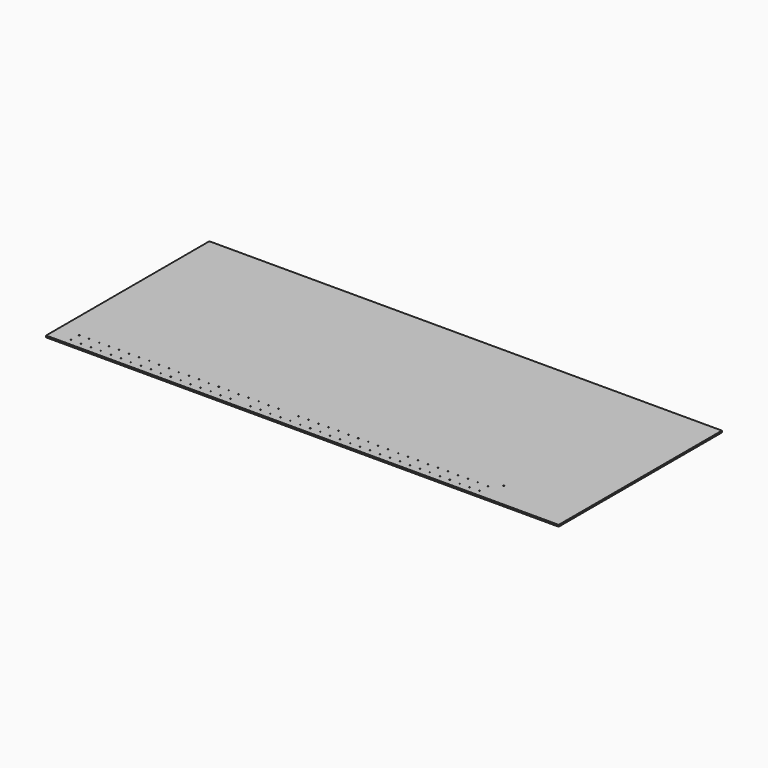
from build123d import *

# Parameters (mm, degrees)
F0_W     = 385.756454
F0_H     = 153.582514
F0_R     = 0.325
F1_DEPTH = 1.27


with BuildPart() as f1:
    # F0 (on Top) → F1 (new body)
    with BuildSketch(Plane.XY):
        with Locations((-17.121773, -53.208743)):
            Rectangle(F0_W, F0_H)
        with Locations((-195, -125.25)):
            Circle(F0_R, mode=Mode.SUBTRACT)
        with Locations((-187.5, -125.25)):
            Circle(F0_R, mode=Mode.SUBTRACT)
        with Locations((-180, -125.25)):
            Circle(F0_R, mode=Mode.SUBTRACT)
        with Locations((-172.5, -125.25)):
            Circle(F0_R, mode=Mode.SUBTRACT)
        with Locations((-165, -125.25)):
            Circle(F0_R, mode=Mode.SUBTRACT)
        with Locations((-195, -117.55)):
            Circle(F0_R, mode=Mode.SUBTRACT)
        with Locations((-187.5, -117.55)):
            Circle(F0_R, mode=Mode.SUBTRACT)
        with Locations((-180, -117.55)):
            Circle(F0_R, mode=Mode.SUBTRACT)
        with Locations((-172.5, -117.55)):
            Circle(F0_R, mode=Mode.SUBTRACT)
        with Locations((-165, -117.55)):
            Circle(F0_R, mode=Mode.SUBTRACT)
        with Locations((-157.5, -125.25)):
            Circle(F0_R, mode=Mode.SUBTRACT)
        with Locations((-150, -125.25)):
            Circle(F0_R, mode=Mode.SUBTRACT)
        with Locations((-142.5, -125.25)):
            Circle(F0_R, mode=Mode.SUBTRACT)
        with Locations((-135, -125.25)):
            Circle(F0_R, mode=Mode.SUBTRACT)
        with Locations((-127.5, -125.25)):
            Circle(F0_R, mode=Mode.SUBTRACT)
        with Locations((-120, -125.25)):
            Circle(F0_R, mode=Mode.SUBTRACT)
        with Locations((-157.5, -117.55)):
            Circle(F0_R, mode=Mode.SUBTRACT)
        with Locations((-150, -117.55)):
            Circle(F0_R, mode=Mode.SUBTRACT)
        with Locations((-142.5, -117.55)):
            Circle(F0_R, mode=Mode.SUBTRACT)
        with Locations((-135, -117.55)):
            Circle(F0_R, mode=Mode.SUBTRACT)
        with Locations((-127.5, -117.55)):
            Circle(F0_R, mode=Mode.SUBTRACT)
        with Locations((-120, -117.55)):
            Circle(F0_R, mode=Mode.SUBTRACT)
        with Locations((-112.5, -125.25)):
            Circle(F0_R, mode=Mode.SUBTRACT)
        with Locations((-105, -125.25)):
            Circle(F0_R, mode=Mode.SUBTRACT)
        with Locations((-97.5, -125.25)):
            Circle(F0_R, mode=Mode.SUBTRACT)
        with Locations((-90, -125.25)):
            Circle(F0_R, mode=Mode.SUBTRACT)
        with Locations((-82.5, -125.25)):
            Circle(F0_R, mode=Mode.SUBTRACT)
        with Locations((-75, -125.25)):
            Circle(F0_R, mode=Mode.SUBTRACT)
        with Locations((-67.5, -125.25)):
            Circle(F0_R, mode=Mode.SUBTRACT)
        with Locations((-112.5, -117.55)):
            Circle(F0_R, mode=Mode.SUBTRACT)
        with Locations((-105, -117.55)):
            Circle(F0_R, mode=Mode.SUBTRACT)
        with Locations((-97.5, -117.55)):
            Circle(F0_R, mode=Mode.SUBTRACT)
        with Locations((-90, -117.55)):
            Circle(F0_R, mode=Mode.SUBTRACT)
        with Locations((-82.5, -117.55)):
            Circle(F0_R, mode=Mode.SUBTRACT)
        with Locations((-75, -117.55)):
            Circle(F0_R, mode=Mode.SUBTRACT)
        with Locations((-67.5, -117.55)):
            Circle(F0_R, mode=Mode.SUBTRACT)
        with Locations((-60, -125.25)):
            Circle(F0_R, mode=Mode.SUBTRACT)
        with Locations((-52.5, -125.25)):
            Circle(F0_R, mode=Mode.SUBTRACT)
        with Locations((-45, -125.25)):
            Circle(F0_R, mode=Mode.SUBTRACT)
        with Locations((-37.5, -125.25)):
            Circle(F0_R, mode=Mode.SUBTRACT)
        with Locations((-30, -125.25)):
            Circle(F0_R, mode=Mode.SUBTRACT)
        with Locations((-22.5, -125.25)):
            Circle(F0_R, mode=Mode.SUBTRACT)
        with Locations((-60, -117.55)):
            Circle(F0_R, mode=Mode.SUBTRACT)
        with Locations((-52.5, -117.55)):
            Circle(F0_R, mode=Mode.SUBTRACT)
        with Locations((-45, -117.55)):
            Circle(F0_R, mode=Mode.SUBTRACT)
        with Locations((-37.5, -117.55)):
            Circle(F0_R, mode=Mode.SUBTRACT)
        with Locations((-30, -117.55)):
            Circle(F0_R, mode=Mode.SUBTRACT)
        with Locations((-22.5, -117.55)):
            Circle(F0_R, mode=Mode.SUBTRACT)
        with Locations((-15, -125.25)):
            Circle(F0_R, mode=Mode.SUBTRACT)
        with Locations((-7.5, -125.25)):
            Circle(F0_R, mode=Mode.SUBTRACT)
        with Locations((0, -125.25)):
            Circle(F0_R, mode=Mode.SUBTRACT)
        with Locations((7.5, -125.25)):
            Circle(F0_R, mode=Mode.SUBTRACT)
        with Locations((15, -125.25)):
            Circle(F0_R, mode=Mode.SUBTRACT)
        with Locations((22.5, -125.25)):
            Circle(F0_R, mode=Mode.SUBTRACT)
        with Locations((30, -125.25)):
            Circle(F0_R, mode=Mode.SUBTRACT)
        with Locations((-15, -117.55)):
            Circle(F0_R, mode=Mode.SUBTRACT)
        with Locations((-7.5, -117.55)):
            Circle(F0_R, mode=Mode.SUBTRACT)
        with Locations((0, -117.55)):
            Circle(F0_R, mode=Mode.SUBTRACT)
        with Locations((7.5, -117.55)):
            Circle(F0_R, mode=Mode.SUBTRACT)
        with Locations((15, -117.55)):
            Circle(F0_R, mode=Mode.SUBTRACT)
        with Locations((22.5, -117.55)):
            Circle(F0_R, mode=Mode.SUBTRACT)
        with Locations((30, -117.55)):
            Circle(F0_R, mode=Mode.SUBTRACT)
        with Locations((37.5, -125.25)):
            Circle(F0_R, mode=Mode.SUBTRACT)
        with Locations((45, -125.25)):
            Circle(F0_R, mode=Mode.SUBTRACT)
        with Locations((52.5, -125.25)):
            Circle(F0_R, mode=Mode.SUBTRACT)
        with Locations((60, -125.25)):
            Circle(F0_R, mode=Mode.SUBTRACT)
        with Locations((67.5, -125.25)):
            Circle(F0_R, mode=Mode.SUBTRACT)
        with Locations((75, -125.25)):
            Circle(F0_R, mode=Mode.SUBTRACT)
        with Locations((37.5, -117.55)):
            Circle(F0_R, mode=Mode.SUBTRACT)
        with Locations((45, -117.55)):
            Circle(F0_R, mode=Mode.SUBTRACT)
        with Locations((52.5, -117.55)):
            Circle(F0_R, mode=Mode.SUBTRACT)
        with Locations((60, -117.55)):
            Circle(F0_R, mode=Mode.SUBTRACT)
        with Locations((67.5, -117.55)):
            Circle(F0_R, mode=Mode.SUBTRACT)
        with Locations((75, -117.55)):
            Circle(F0_R, mode=Mode.SUBTRACT)
        with Locations((82.5, -125.25)):
            Circle(F0_R, mode=Mode.SUBTRACT)
        with Locations((90, -125.25)):
            Circle(F0_R, mode=Mode.SUBTRACT)
        with Locations((97.5, -125.25)):
            Circle(F0_R, mode=Mode.SUBTRACT)
        with Locations((105, -125.25)):
            Circle(F0_R, mode=Mode.SUBTRACT)
        with Locations((112.5, -125.25)):
            Circle(F0_R, mode=Mode.SUBTRACT)
        with Locations((82.5, -117.55)):
            Circle(F0_R, mode=Mode.SUBTRACT)
        with Locations((90, -117.55)):
            Circle(F0_R, mode=Mode.SUBTRACT)
        with Locations((97.5, -117.55)):
            Circle(F0_R, mode=Mode.SUBTRACT)
        with Locations((105, -117.55)):
            Circle(F0_R, mode=Mode.SUBTRACT)
        with Locations((112.5, -117.55)):
            Circle(F0_R, mode=Mode.SUBTRACT)
        with Locations((119.5, -111.33)):
            Circle(F0_R, mode=Mode.SUBTRACT)
    extrude(amount=F1_DEPTH)


solid = f1.part
